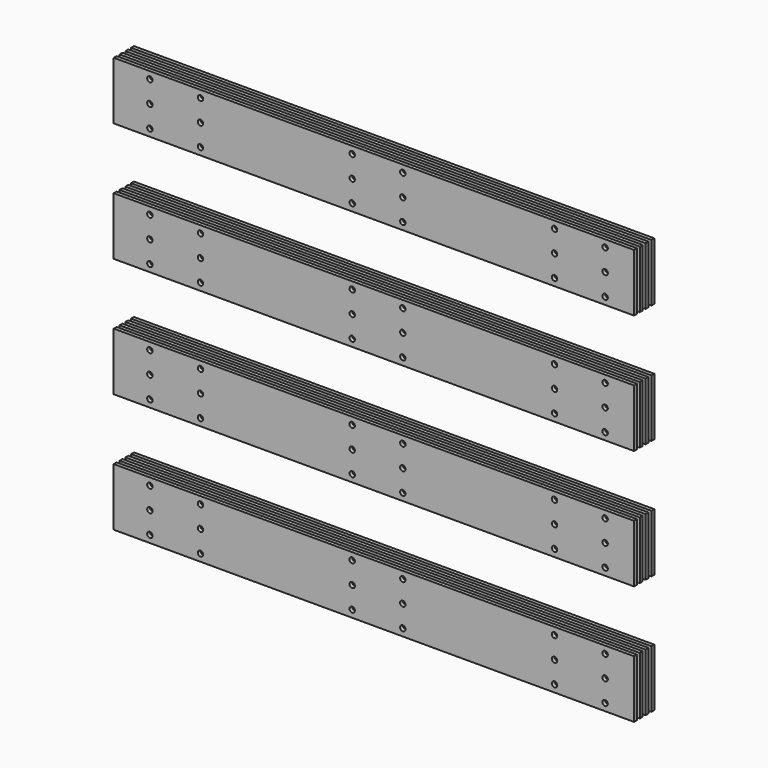
from build123d import *

# Parameters (mm, degrees)
F0_W     = 6.35
F0_H     = 101.6
F1_DEPTH = 457.2
F2_R     = 4.7625
F3_DEPTH = 44.451


with BuildPart() as f1:
    # F0 (on Right) → F1 (new body, symmetric)
    with BuildSketch(Plane.YZ):
        with Locations((3.175, 50.8)):
            Rectangle(F0_W, F0_H)
        with Locations((3.175, -158.75)):
            Rectangle(F0_W, F0_H)
        with Locations((3.175, -368.3)):
            Rectangle(F0_W, F0_H)
        with Locations((3.175, -577.85)):
            Rectangle(F0_W, F0_H)
        with Locations((15.875, 50.8)):
            Rectangle(F0_W, F0_H)
        with Locations((15.875, -158.75)):
            Rectangle(F0_W, F0_H)
        with Locations((15.875, -368.3)):
            Rectangle(F0_W, F0_H)
        with Locations((15.875, -577.85)):
            Rectangle(F0_W, F0_H)
        with Locations((28.575, 50.8)):
            Rectangle(F0_W, F0_H)
        with Locations((28.575, -158.75)):
            Rectangle(F0_W, F0_H)
        with Locations((28.575, -368.3)):
            Rectangle(F0_W, F0_H)
        with Locations((28.575, -577.85)):
            Rectangle(F0_W, F0_H)
        with Locations((41.275, 50.8)):
            Rectangle(F0_W, F0_H)
        with Locations((41.275, -158.75)):
            Rectangle(F0_W, F0_H)
        with Locations((41.275, -368.3)):
            Rectangle(F0_W, F0_H)
        with Locations((41.275, -577.85)):
            Rectangle(F0_W, F0_H)
    extrude(amount=F1_DEPTH, both=True)

    # F2 (on face) → F3 (cut, through all)
    with BuildSketch(Plane.XZ):
        with Locations((406.4, 88.9)):
            Circle(F2_R)
        with Locations((406.4, 50.8)):
            Circle(F2_R)
        with Locations((406.4, 12.7)):
            Circle(F2_R)
        with Locations((317.5, 88.9)):
            Circle(F2_R)
        with Locations((317.5, 50.8)):
            Circle(F2_R)
        with Locations((317.5, 12.7)):
            Circle(F2_R)
        with Locations((317.5, -158.75)):
            Circle(F2_R)
        with Locations((406.4, -158.75)):
            Circle(F2_R)
        with Locations((317.5, -120.65)):
            Circle(F2_R)
        with Locations((406.4, -120.65)):
            Circle(F2_R)
        with Locations((406.4, -196.85)):
            Circle(F2_R)
        with Locations((317.5, -196.85)):
            Circle(F2_R)
        with Locations((317.5, -368.3)):
            Circle(F2_R)
        with Locations((406.4, -368.3)):
            Circle(F2_R)
        with Locations((317.5, -330.2)):
            Circle(F2_R)
        with Locations((406.4, -330.2)):
            Circle(F2_R)
        with Locations((406.4, -406.4)):
            Circle(F2_R)
        with Locations((317.5, -406.4)):
            Circle(F2_R)
        with Locations((317.5, -577.85)):
            Circle(F2_R)
        with Locations((406.4, -577.85)):
            Circle(F2_R)
        with Locations((317.5, -539.75)):
            Circle(F2_R)
        with Locations((406.4, -539.75)):
            Circle(F2_R)
        with Locations((406.4, -615.95)):
            Circle(F2_R)
        with Locations((317.5, -615.95)):
            Circle(F2_R)
        with Locations((-38.1, 50.8)):
            Circle(F2_R)
        with Locations((50.8, 50.8)):
            Circle(F2_R)
        with Locations((-38.1, 88.9)):
            Circle(F2_R)
        with Locations((50.8, 88.9)):
            Circle(F2_R)
        with Locations((50.8, 12.7)):
            Circle(F2_R)
        with Locations((-38.1, 12.7)):
            Circle(F2_R)
        with Locations((-38.1, -158.75)):
            Circle(F2_R)
        with Locations((50.8, -158.75)):
            Circle(F2_R)
        with Locations((-38.1, -120.65)):
            Circle(F2_R)
        with Locations((50.8, -120.65)):
            Circle(F2_R)
        with Locations((50.8, -196.85)):
            Circle(F2_R)
        with Locations((-38.1, -196.85)):
            Circle(F2_R)
        with Locations((-38.1, -368.3)):
            Circle(F2_R)
        with Locations((50.8, -368.3)):
            Circle(F2_R)
        with Locations((-38.1, -330.2)):
            Circle(F2_R)
        with Locations((50.8, -330.2)):
            Circle(F2_R)
        with Locations((50.8, -406.4)):
            Circle(F2_R)
        with Locations((-38.1, -406.4)):
            Circle(F2_R)
        with Locations((-38.1, -577.85)):
            Circle(F2_R)
        with Locations((50.8, -577.85)):
            Circle(F2_R)
        with Locations((-38.1, -539.75)):
            Circle(F2_R)
        with Locations((50.8, -539.75)):
            Circle(F2_R)
        with Locations((50.8, -615.95)):
            Circle(F2_R)
        with Locations((-38.1, -615.95)):
            Circle(F2_R)
        with Locations((-393.7, 50.8)):
            Circle(F2_R)
        with Locations((-304.8, 50.8)):
            Circle(F2_R)
        with Locations((-393.7, 88.9)):
            Circle(F2_R)
        with Locations((-304.8, 88.9)):
            Circle(F2_R)
        with Locations((-304.8, 12.7)):
            Circle(F2_R)
        with Locations((-393.7, 12.7)):
            Circle(F2_R)
        with Locations((-393.7, -158.75)):
            Circle(F2_R)
        with Locations((-304.8, -158.75)):
            Circle(F2_R)
        with Locations((-393.7, -120.65)):
            Circle(F2_R)
        with Locations((-304.8, -120.65)):
            Circle(F2_R)
        with Locations((-304.8, -196.85)):
            Circle(F2_R)
        with Locations((-393.7, -196.85)):
            Circle(F2_R)
        with Locations((-393.7, -368.3)):
            Circle(F2_R)
        with Locations((-304.8, -368.3)):
            Circle(F2_R)
        with Locations((-393.7, -330.2)):
            Circle(F2_R)
        with Locations((-304.8, -330.2)):
            Circle(F2_R)
        with Locations((-304.8, -406.4)):
            Circle(F2_R)
        with Locations((-393.7, -406.4)):
            Circle(F2_R)
        with Locations((-393.7, -577.85)):
            Circle(F2_R)
        with Locations((-304.8, -577.85)):
            Circle(F2_R)
        with Locations((-393.7, -539.75)):
            Circle(F2_R)
        with Locations((-304.8, -539.75)):
            Circle(F2_R)
        with Locations((-304.8, -615.95)):
            Circle(F2_R)
        with Locations((-393.7, -615.95)):
            Circle(F2_R)
    extrude(amount=-F3_DEPTH, mode=Mode.SUBTRACT)


solid = f1.part
